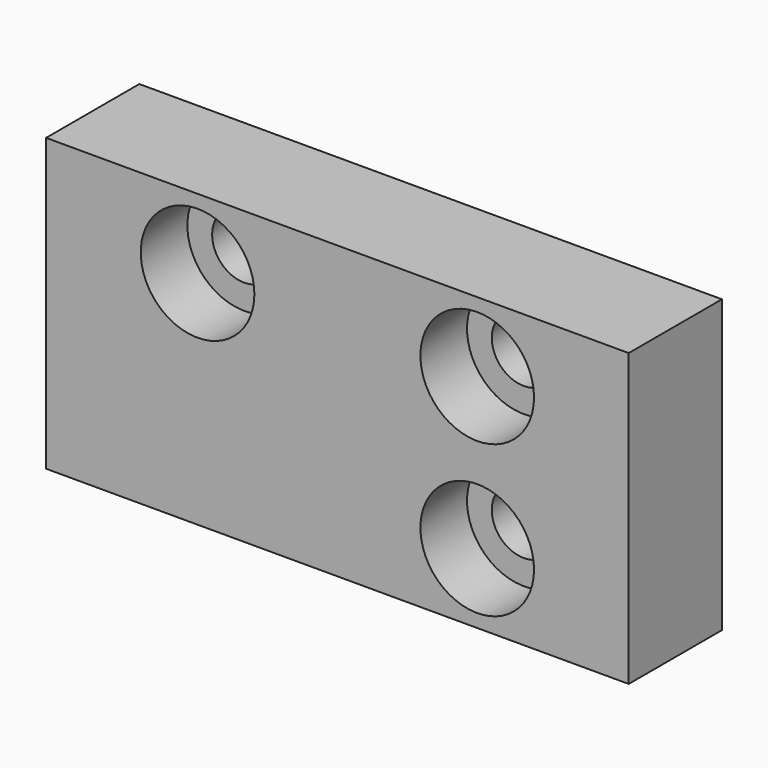
from build123d import *

# Parameters (mm, degrees)
F0_W           = 50
F0_H           = 25
F1_DEPTH       = 10
F2_D           = 5.5
F2_DEPTH       = 14
F2_CBORE_D     = 9.75
F2_CBORE_DEPTH = 5
F2_TIP         = 1.6523667023


with BuildPart() as f1:
    # F0 (on Front) → F1 (new body)
    with BuildSketch(Plane.XZ):
        Rectangle(F0_W, F0_H)
    extrude(amount=-F1_DEPTH)

    # F2
    with Locations(Plane.XZ):
        with Locations((-12, 6.5), (12, 6.5), (12, -6.5)):
            CounterBoreHole(F2_D / 2, F2_CBORE_D / 2, F2_CBORE_DEPTH, depth=F2_DEPTH)
            with Locations((0, 0, -(F2_DEPTH + F2_TIP / 2))):  # 118° drill point
                Cone(0, F2_D / 2, F2_TIP, mode=Mode.SUBTRACT)


solid = f1.part
